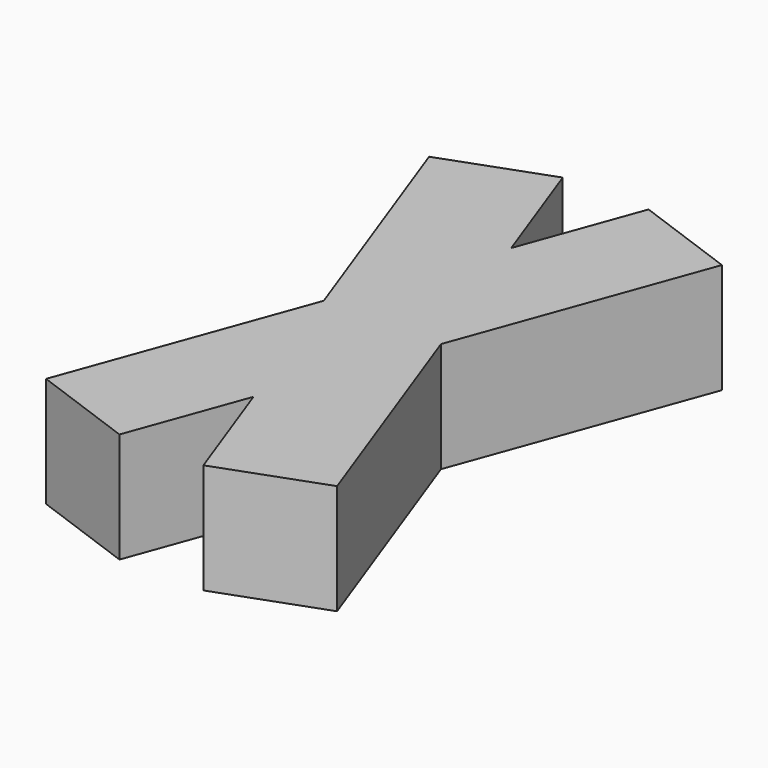
from build123d import *

# Parameters (mm, degrees)
BOX001_W               = 2
BOX001_H               = 10
BOX001_DEPTH           = 2
BOX001_PLACEMENT_ANGLE = 340
BOX_W                  = 2
BOX_H                  = 10
BOX_DEPTH              = 2
BOX_PLACEMENT_ANGLE    = 20


with BuildPart() as cub001:
    # Box001 → Box001 (new body)
    with BuildSketch(Plane.XY):
        with Locations((1, 5)):
            Rectangle(BOX001_W, BOX001_H)
    extrude(amount=BOX001_DEPTH)


with BuildPart() as cub001_1:
    # Box001 placement: moved
    add(cub001.part.moved(Location((0, 0.68, 0))).rotate(Axis((0, 0.68, 0), (0, 0, 1)), BOX001_PLACEMENT_ANGLE))


with BuildPart() as fusion:
    # Box → Box (new body)
    with BuildSketch(Plane.XY):
        with Locations((1, 5)):
            Rectangle(BOX_W, BOX_H)
    extrude(amount=BOX_DEPTH)


with BuildPart() as fusion_1:
    # Box placement: moved
    add(fusion.part.moved(Location((3.4, 0, 0))).rotate(Axis((3.4, 0, 0), (0, 0, 1)), BOX_PLACEMENT_ANGLE))

    # Fusion: union Cub001
    add(cub001_1.part)


solid = fusion_1.part
